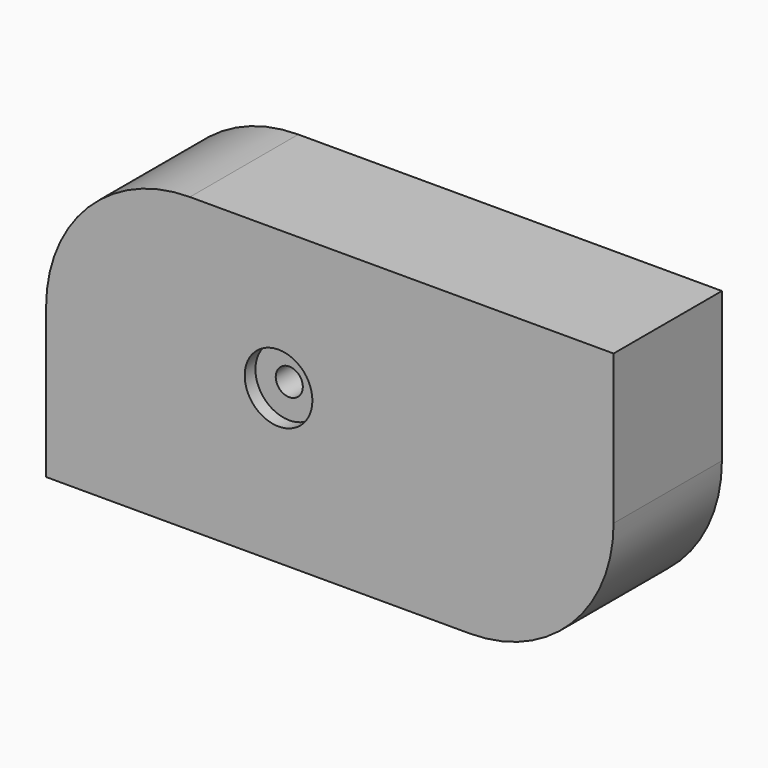
from build123d import *

# Parameters (mm, degrees)
F0_W           = 106.4566392452
F0_H           = 55.0185795873
F1_DEPTH       = 25.4
F2_R           = 26.9812507731
F3_D           = 5.08
F3_DEPTH       = 13.6525
F3_CBORE_D     = 12.7
F3_CBORE_DEPTH = 2.5146
F3_TIP         = 1.5261859723


with BuildPart() as f1:
    # F0 (on Front) → F1 (new body)
    with BuildSketch(Plane.XZ):
        with Locations((-65.4772659764, 6.4995298162)):
            Rectangle(F0_W, F0_H)
    extrude(amount=-F1_DEPTH)

    # F2
    f2_edges = [f1.edges().sort_by_distance(p)[0] for p in [
        (-12.248946, 12.7, -21.00976),
        (-118.705586, 12.7, 34.00882),
    ]]
    fillet(f2_edges, radius=F2_R)

    # F3
    with Locations(Plane.XZ):
        with Locations((-75.099773705, 7.8630894423)):
            CounterBoreHole(F3_D / 2, F3_CBORE_D / 2, F3_CBORE_DEPTH, depth=F3_DEPTH)
            with Locations((0, 0, -(F3_DEPTH + F3_TIP / 2))):  # 118° drill point
                Cone(0, F3_D / 2, F3_TIP, mode=Mode.SUBTRACT)


solid = f1.part
